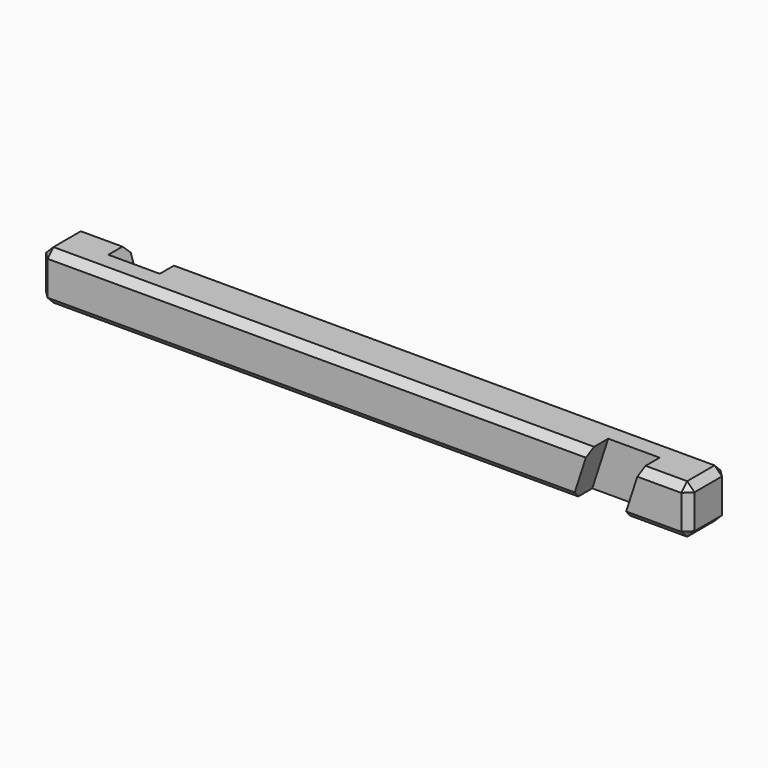
from build123d import *

# Parameters (mm, degrees)
F1_DEPTH = 10
F3_DEPTH = 4.9
F5_DEPTH = 4.9
F6_SIZE  = 1.5


with BuildPart() as f1:
    # F0 (on Front) → F1 (new body)
    with BuildSketch(Plane.XZ):
        Polygon((-60.0217013935, 10), (-60.0217013935, 0), (-46.7717013935, 0), (-50.0208983558, 10), align=None)
    extrude(amount=F1_DEPTH)



with BuildPart() as f1b:
    # F0 (on Front) → F1, piece 2 (new body)
    with BuildSketch(Plane.XZ):
        Polygon((-39.5058983558, 10), (-36.2567013935, 0), (48.7149046818, 0), (51.9641016442, 10), align=None)
    extrude(amount=F1_DEPTH)



with BuildPart() as f1c:
    # F0 (on Front) → F1, piece 3 (new body)
    with BuildSketch(Plane.XZ):
        Polygon((62.4791016442, 10), (59.2299046818, 0), (72.4799046818, 0), (72.4799046818, 10), align=None)
    extrude(amount=F1_DEPTH)


with BuildPart() as f1b_1:
    add(f1b.part)

    add(f1c.part)  # F3 merges F1c
    # F2 (on face) → F3 (join)
    with BuildSketch(Plane(origin=(0, 0, 0), x_dir=(-1, 0, 0), z_dir=(0, 1, 0))):
        Polygon((-51.9641016442, 10), (-62.4791016442, 10), (-59.2299046818, 0), (-48.7149046818, 0), align=None)
    extrude(amount=-F3_DEPTH)


with BuildPart() as f1_1:
    add(f1.part)

    add(f1b_1.part)  # F5 merges F1b
    # F4 (on face) → F5 (join)
    with BuildSketch(Plane.XZ.offset(10)):
        Polygon((-39.5058983558, 10), (-50.0208983558, 10), (-46.7717013935, 0), (-36.2567013935, 0), align=None)
    extrude(amount=-F5_DEPTH)

    # F6
    f6_edges = [f1_1.edges().sort_by_distance(p)[0] for p in [
        (-60.021701, -5, 10),
        (-60.021701, -5, 0),
        (-60.021701, 0, 5),
        (-60.021701, -10, 5),
        (-55.0213, 0, 10),
        (-53.396701, 0, 0),
        (-5.653398, -10, 0),
        (-4.0288, -10, 10),
        (18.111602, 0, 0),
        (65.854905, -10, 0),
        (67.479503, -10, 10),
        (72.479905, -10, 5),
        (72.479905, -5, 0),
        (72.479905, 0, 5),
        (72.479905, -5, 10),
        (16.487003, 0, 10),
    ]]
    chamfer(f6_edges, length=F6_SIZE)


solid = f1_1.part
